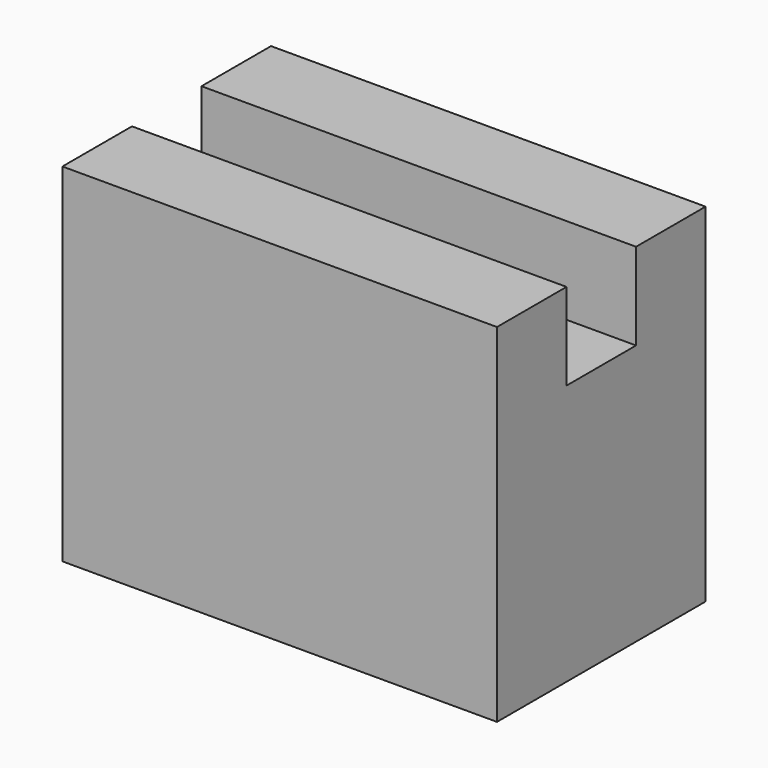
from build123d import *

# Parameters (mm, degrees)
F0_W      = 50
F0_H      = 40
F1_DEPTH  = 30
F2_W      = 10
F2_H      = 10
F3_DEPTH  = 50
F3_FACE_W = 10
F3_FACE_H = 10
F4_DEPTH  = 100


with BuildPart() as f1:
    # F0 (on Front) → F1 (new body)
    with BuildSketch(Plane.XZ):
        with Locations((25, 20)):
            Rectangle(F0_W, F0_H)
    extrude(amount=F1_DEPTH)

    # F2 (on face) → F3 (join)
    with BuildSketch(Plane.YZ.offset(50)):
        with Locations((-15, 35)):
            Rectangle(F2_W, F2_H)
    extrude(amount=F3_DEPTH)

    # F3_face (on face) → F4 (cut)
    with BuildSketch(Plane(origin=(100, -15, 35), x_dir=(0, 1, 0), z_dir=(1, 0, 0))):
        Rectangle(F3_FACE_W, F3_FACE_H)
    extrude(amount=-F4_DEPTH, mode=Mode.SUBTRACT)


solid = f1.part
